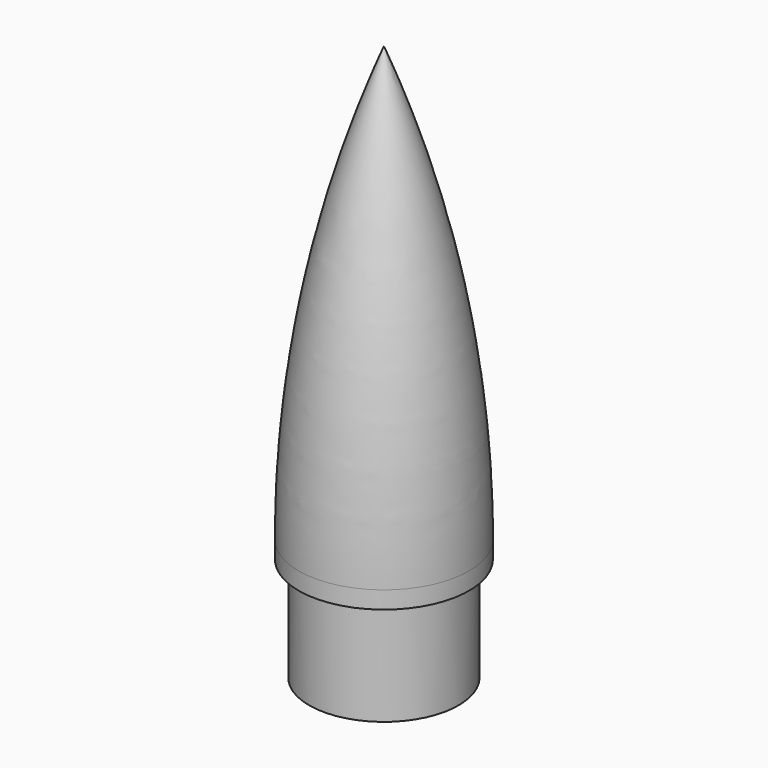
from build123d import *


with BuildPart() as f1:
    # F0 (on Front) → F1 (revolve)
    with BuildSketch(Plane.XZ):
        with BuildLine():
            Line((-10.922, 15.24), (-10.922, 0))
            Line((-10.922, 0), (-8.89, 0))
            Line((-8.89, 0), (-8.89, 27.017095))
            ThreePointArc((-8.89, 27.017095), (-6.651324, 53.257765), (0, 78.74))
            Line((0, 78.74), (0, 81.28))
            ThreePointArc((0, 81.28), (-9.305178, 50.134107), (-12.446, 17.78))
            Line((-12.446, 17.78), (-12.446, 15.24))
            Line((-12.446, 15.24), (-10.922, 15.24))
        make_face()
    revolve(axis=Axis((0, 0, 80.01), (0, 0, -1)))


solid = f1.part
